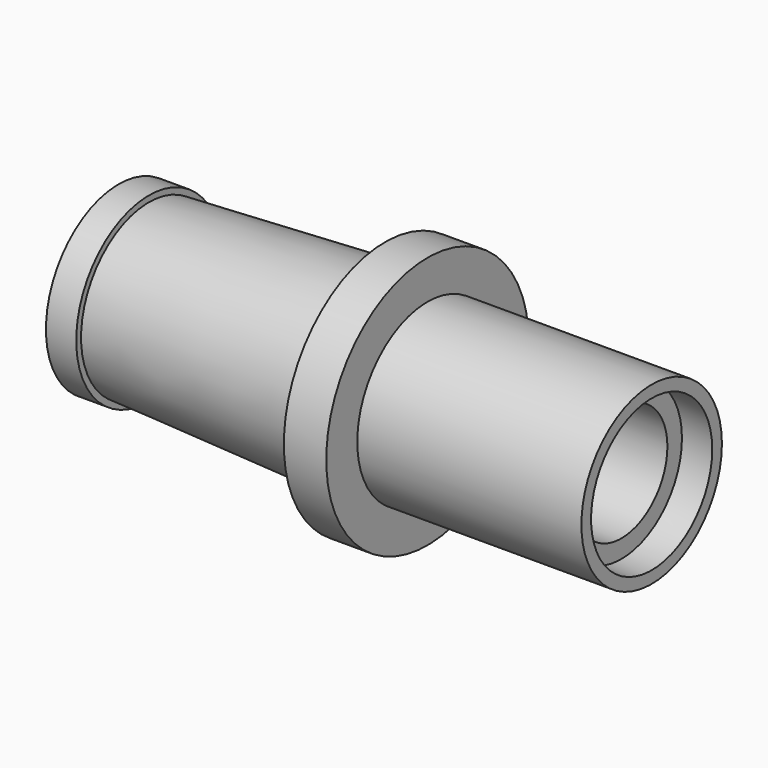
from build123d import *


with BuildPart() as f1:
    # F0 (on Top) → F1 (revolve)
    with BuildSketch(Plane.XY):
        Polygon((11.176, -1.27), (1.778, -1.27), (1.778, 0), (1.778, 0.35672), (0, 0.35672), (0, -0.91328), (-9.906, -1.397), (-9.906, -1.143), (-11.176, -1.143), (-11.176, -1.778), (-4.826, -1.778), (-4.826, -2.54), (0, -2.54), (0, -4.953), (1.524, -4.953), (1.524, -2.54), (9.906, -2.54), (9.906, -1.778), (11.176, -1.778), align=None)
    revolve(axis=Axis((0.762, -4.953, 0), (-1, 0, 0)))


solid = f1.part
